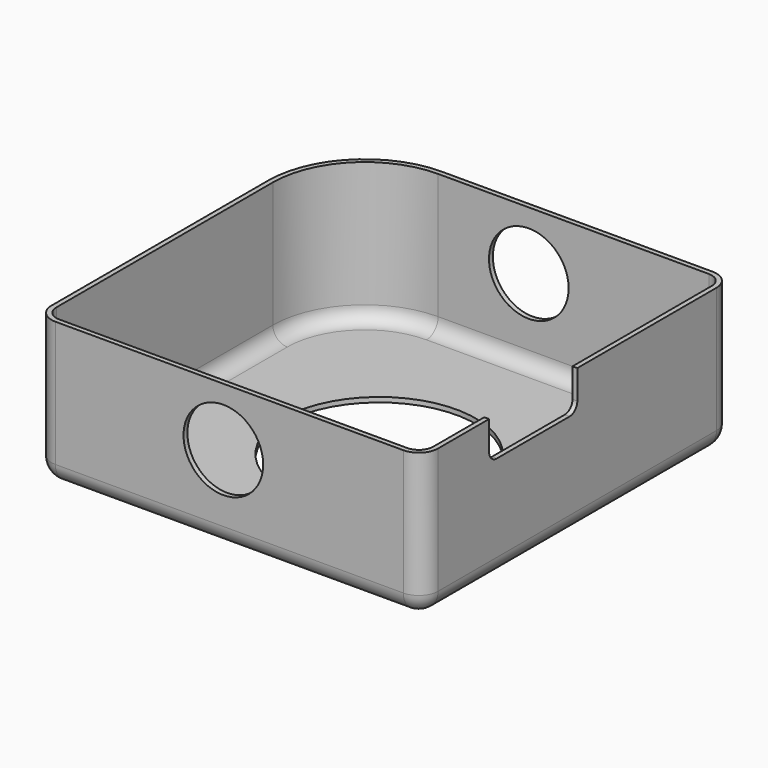
from build123d import *

# Parameters (mm, degrees)
F0_W      = 200
F0_H      = 200
F1_DEPTH  = 75
F2_R      = 10
F3_R      = 50
F4_R      = 10
F5_T      = -2.5
F6_R      = 20.601636
F7_DEPTH  = 200.001
F9_DEPTH  = 2.5
F11_DEPTH = 2.5


with BuildPart() as f1:
    # F0 (on Top) → F1 (new body)
    with BuildSketch(Plane.XY):
        with Locations((3.103165, 0)):
            Rectangle(F0_W, F0_H)
    extrude(amount=F1_DEPTH)

    # F2
    f2_edges = [f1.edges().sort_by_distance(p)[0] for p in [
        (-96.896835, -100, 37.5),
        (103.103165, -100, 37.5),
        (103.103165, 100, 37.5),
    ]]
    fillet(f2_edges, radius=F2_R)

    # F3
    f3_edges = [f1.edges().sort_by_distance(p)[0] for p in [
        (-96.896835, 100, 37.5),
    ]]
    fillet(f3_edges, radius=F3_R)

    # F4
    f4_edges = [f1.edges().sort_by_distance(p)[0] for p in [
        (23.103165, 100, 0),
    ]]
    fillet(f4_edges, radius=F4_R)

    # F5
    f5_openings = [f1.faces().sort_by_distance(p)[0] for p in [
        (4.259549, -1.156383, 75),
    ]]
    offset(amount=F5_T, openings=f5_openings)

    # F6 (on face) → F7 (cut, through all)
    with BuildSketch(Plane.XZ.offset(100)):
        with Locations((0, 44.865675)):
            Circle(F6_R)
    extrude(amount=-F7_DEPTH, mode=Mode.SUBTRACT)

    # F8 (on face) → F9 (cut, through all)
    with BuildSketch(Plane.XY.offset(2.5)):
        with BuildLine():
            ThreePointArc((54.924048, -7.537108), (51.811896, -2.99646), (50.547384, 2.361149))
            ThreePointArc((50.547384, 2.361149), (-39.923575, 29.284524), (14.04054, -48.160533))
            ThreePointArc((14.04054, -48.160533), (21.879419, -48.100018), (28.678354, -52.002092))
            Line((28.678354, -52.002092), (42.298151, -65.621889))
            Line((42.298151, -65.621889), (77.65349, -30.26655))
            Line((77.65349, -30.26655), (54.924048, -7.537108))
        make_face()
    extrude(amount=-F9_DEPTH, mode=Mode.SUBTRACT)

    # F10 (on face) → F11 (cut, through all)
    with BuildSketch(Plane.YZ.offset(103.103165)):
        with BuildLine():
            ThreePointArc((-57.071527, 60), (-55.607061, 56.464466), (-52.071527, 55))
            Line((-52.071527, 55), (-5, 55))
            ThreePointArc((-5, 55), (-1.464466, 56.464466), (0, 60))
            Line((0, 60), (0, 75))
            Line((0, 75), (-57.071527, 75))
            Line((-57.071527, 75), (-57.071527, 60))
        make_face()
    extrude(amount=-F11_DEPTH, mode=Mode.SUBTRACT)


solid = f1.part
